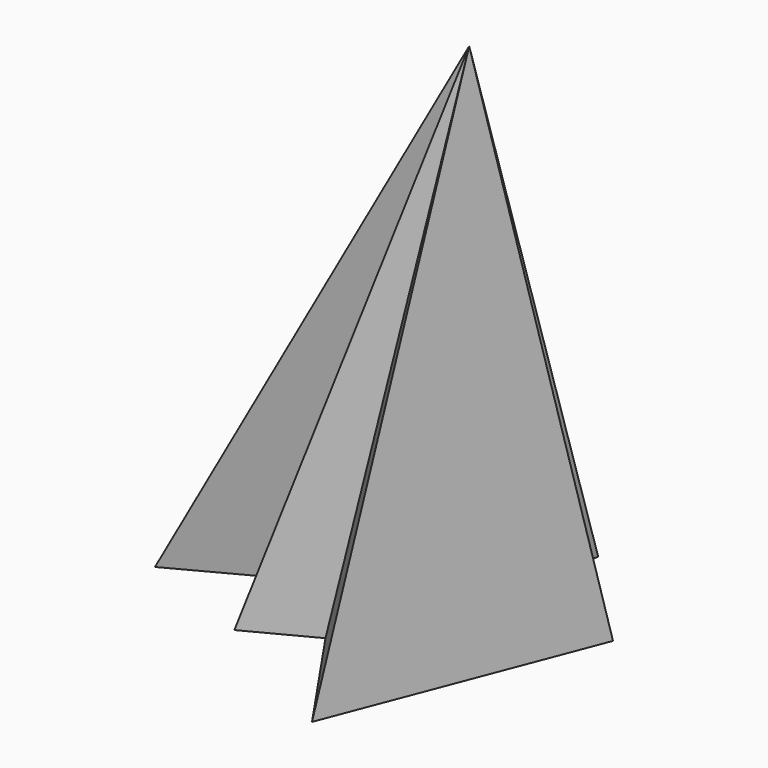
from build123d import *


with BuildPart() as f3:
    # F0 (on Top) → F3 section 0
    with BuildSketch(Plane.XY, mode=Mode.PRIVATE) as f3_s0:
        Polygon((0, 38.911968), (-46.636067, 14.136557), (-47.134881, -2.824515), (-30.021966, 6.266722), (-26.232786, -10.930329), (-14.57377, -4.809345), (0, -26.087049), (17.803751, 20.024228), (-6.995411, 6.849673), align=None)
    loft([f3_s0.sketch, Vertex(7.693543, 0, 100)])


solid = f3.part
